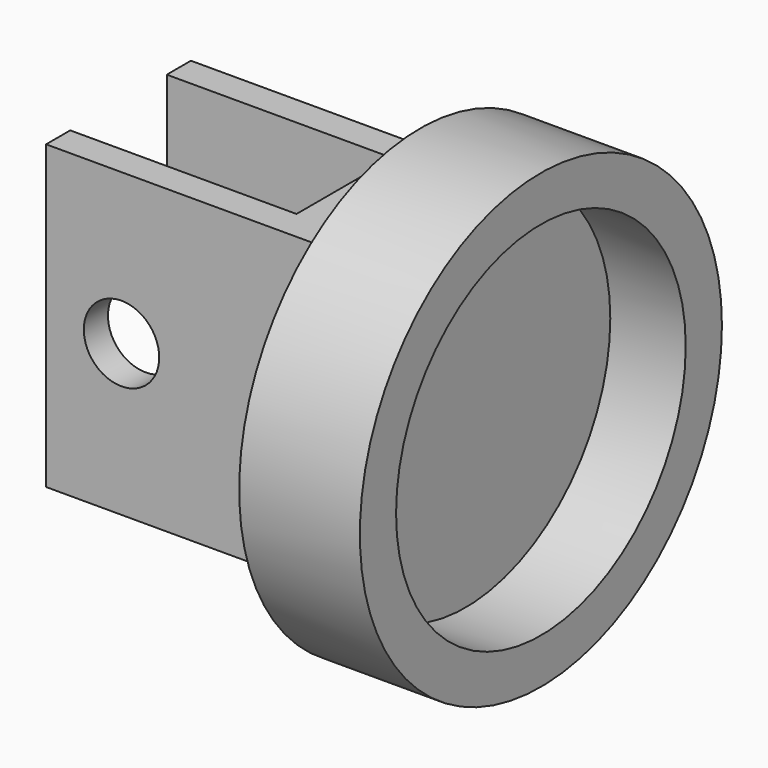
from build123d import *

# Parameters (mm, degrees)
F0_W     = 200
F0_H     = 200
F0_R     = 25
F1_DEPTH = 60
F2_W     = 150
F2_H     = 200
F3_DEPTH = 40
F4_R     = 150
F5_DEPTH = 80
F6_R     = 120
F7_DEPTH = 50


with BuildPart() as f1:
    # F0 (on Front) → F1 (new body, symmetric)
    with BuildSketch(Plane.XZ):
        with Locations((-100, 0)):
            Rectangle(F0_W, F0_H)
        with Locations((-150, 0)):
            Circle(F0_R, mode=Mode.SUBTRACT)
    extrude(amount=F1_DEPTH, both=True)

    # F2 (on Front) → F3 (cut, symmetric)
    with BuildSketch(Plane.XZ):
        with Locations((-125, 0)):
            Rectangle(F2_W, F2_H)
    extrude(amount=F3_DEPTH, both=True, mode=Mode.SUBTRACT)

    # F4 (on face) → F5 (join)
    with BuildSketch(Plane.YZ):
        Circle(F4_R)
    extrude(amount=F5_DEPTH)

    # F6 (on face) → F7 (cut)
    with BuildSketch(Plane.YZ.offset(80)):
        Circle(F6_R)
    extrude(amount=-F7_DEPTH, mode=Mode.SUBTRACT)


solid = f1.part
